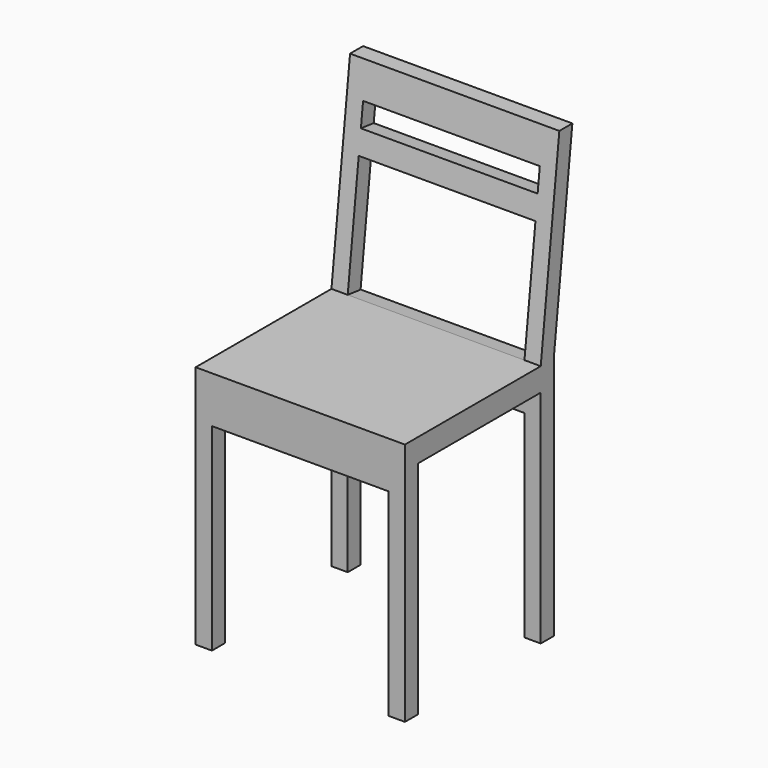
from build123d import *

# Parameters (mm, degrees)
F0_W     = 450
F0_H     = 450
F1_DEPTH = 950
F2_W     = 50
F2_H     = 50
F2_W_2   = 330
F2_H_2   = 475
F3_DEPTH = 450.001
F4_W     = 380
F4_H     = 425
F5_DEPTH = 400.001
F6_W     = 380
F6_H     = 50
F6_H_2   = 252.931069
F7_DEPTH = 145.760456


with BuildPart() as f1:
    # F0 (on Top) → F1 (new body)
    with BuildSketch(Plane.XY):
        Rectangle(F0_W, F0_H)
    extrude(amount=F1_DEPTH)

    # F2 (on face) → F3 (cut, through all)
    with BuildSketch(Plane.YZ.offset(225)):
        with Locations((200, 500)):
            Rectangle(F2_W, F2_H)
        with Locations((-25, 237.5)):
            Rectangle(F2_W_2, F2_H_2)
        with Locations((200, 237.5)):
            Rectangle(F2_W, F2_H_2)
        Polygon((225, 950), (175, 525), (225, 525), align=None)
        Polygon((-225, 950), (-225, 525), (140, 525), (190, 950), align=None)
    extrude(amount=-F3_DEPTH, mode=Mode.SUBTRACT)

    # F4 (on face) → F5 (cut, through all)
    with BuildSketch(Plane(origin=(0, 175, 0), x_dir=(-1, 0, 0), z_dir=(0, 1, 0))):
        with Locations((0, 212.5)):
            Rectangle(F4_W, F4_H)
    extrude(amount=-F5_DEPTH, mode=Mode.SUBTRACT)

    # F6 (on face) → F7 (cut, through all)
    with BuildSketch(Plane(origin=(0, 77.167235, -9.078498), x_dir=(1, 0, 0), z_dir=(0, -0.993151, 0.116841))):
        with Locations((0, 865.692911)):
            Rectangle(F6_W, F6_H)
        with Locations((0, 664.227376)):
            Rectangle(F6_W, F6_H_2)
    extrude(amount=-F7_DEPTH, mode=Mode.SUBTRACT)


solid = f1.part
